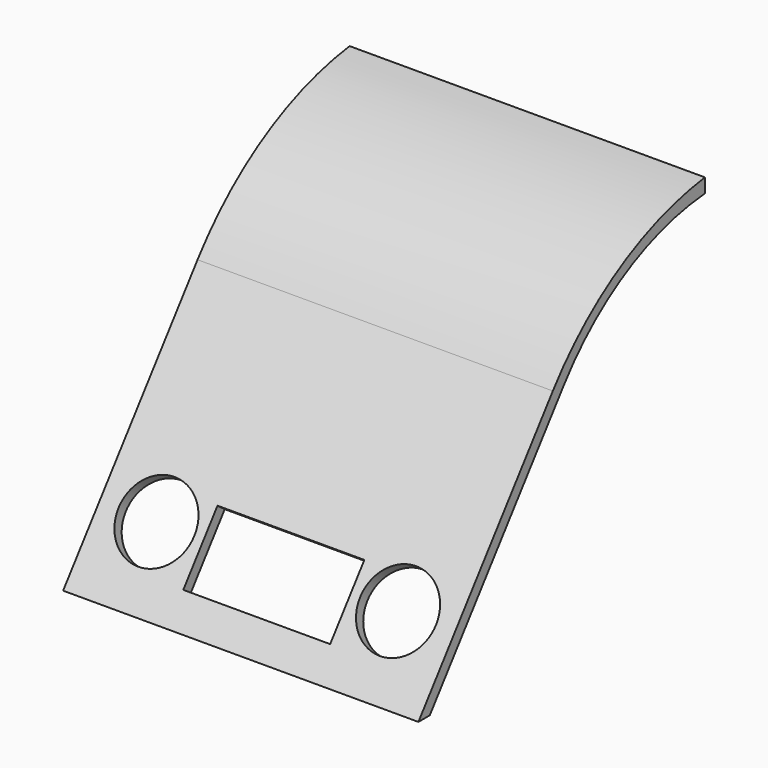
from build123d import *

# Parameters (mm, degrees)
F1_DEPTH = 95.25
F2_R     = 10.16
F2_W     = 39.37
F2_H     = 19.05
F3_DEPTH = 25.4


with BuildPart() as f1:
    # F0 (on Right) → F1 (new body)
    with BuildSketch(Plane.YZ):
        with BuildLine():
            ThreePointArc((42.311873, 41.937777), (13.84255, 32.215467), (-8.645249, 12.232359))
            Line((-8.645249, 12.232359), (-53.689915, -47.56531))
            Line((-53.689915, -47.56531), (-49.879915, -47.56531))
            Line((-49.879915, -47.56531), (-4.835249, 12.232359))
            ThreePointArc((-4.835249, 12.232359), (15.95876, 30.240728), (42.311873, 38.127777))
            Line((42.311873, 38.127777), (42.311873, 41.937777))
        make_face()
    extrude(amount=F1_DEPTH)

    # F2 (on face) → F3 (cut)
    with BuildSketch(Plane(origin=(0, -11.394199, 8.583075), x_dir=(1, 0, 0), z_dir=(0, -0.798739, 0.601678))):
        with Locations((15.24, -49.976293)):
            Circle(F2_R)
        with Locations((47.625, -51.881293)):
            Rectangle(F2_W, F2_H)
        with Locations((80.01, -49.976293)):
            Circle(F2_R)
    extrude(amount=-F3_DEPTH, mode=Mode.SUBTRACT)


solid = f1.part
